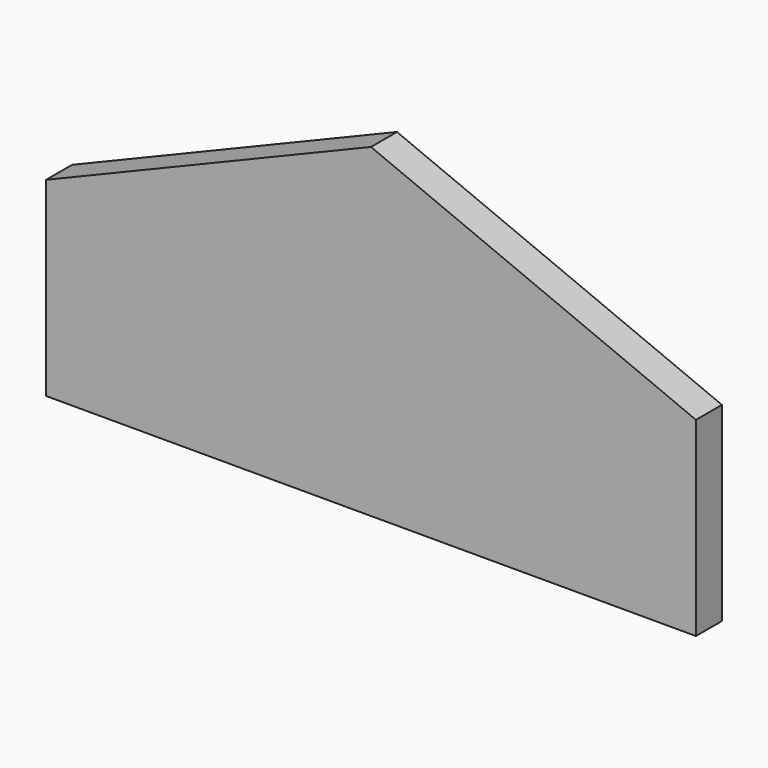
from build123d import *

# Parameters (mm, degrees)
F0_W     = 400
F0_H     = 20
F1_DEPTH = 200
F4_DEPTH = 20.001
F6_DEPTH = 20.001


with BuildPart() as f1:
    # F0 (on Top) → F1 (new body)
    with BuildSketch(Plane.XY):
        with Locations((0, -10)):
            Rectangle(F0_W, F0_H)
    extrude(amount=F1_DEPTH)

    # F3 (on face) → F4 (cut, through all)
    with BuildSketch(Plane.XZ.offset(20)):
        Polygon((-200, 117.157288), (0, 200), (-200, 200), align=None)
    extrude(amount=-F4_DEPTH, mode=Mode.SUBTRACT)

    # F5 (on face) → F6 (cut, through all)
    with BuildSketch(Plane.XZ.offset(20)):
        Polygon((200, 200), (0, 200), (200, 117.157288), align=None)
    extrude(amount=-F6_DEPTH, mode=Mode.SUBTRACT)


solid = f1.part
